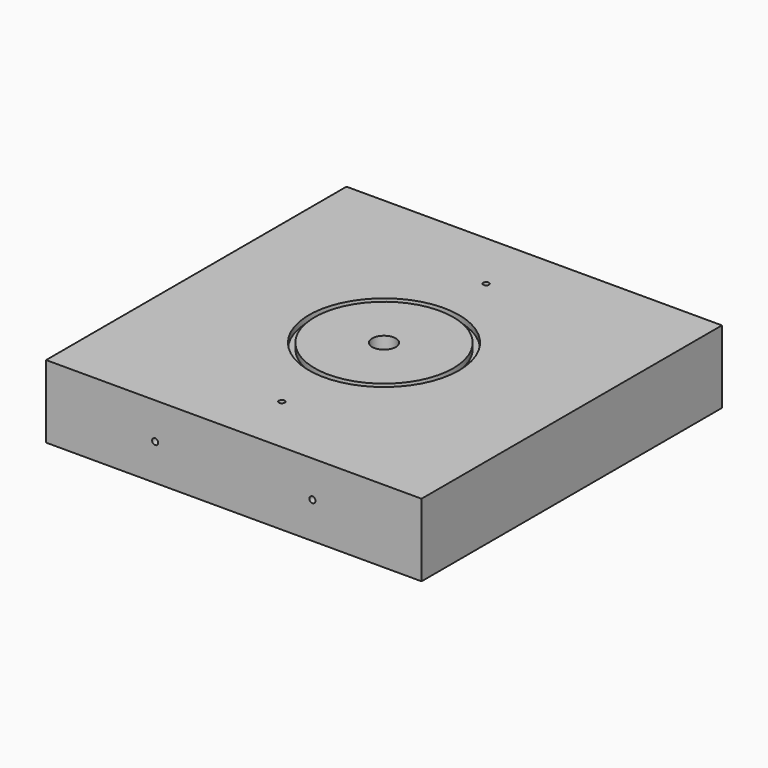
from build123d import *

# Parameters (mm, degrees)
F0_W     = 206.5
F0_H     = 206.5
F1_DEPTH = 40
F2_R     = 41.275
F2_R_2   = 38.1
F3_DEPTH = 3.175
F4_R     = 6.5
F5_DEPTH = 8
F6_R     = 1.5875
F8_DEPTH = 5
F7_R     = 1.67005
F9_DEPTH = 5


with BuildPart() as f1:
    # F0 (on Top) → F1 (new body)
    with BuildSketch(Plane.XY):
        Rectangle(F0_W, F0_H)
    extrude(amount=F1_DEPTH)

    # F2 (on face) → F3 (cut)
    with BuildSketch(Plane.XY.offset(40)):
        Circle(F2_R)
        Circle(F2_R_2, mode=Mode.SUBTRACT)
    extrude(amount=-F3_DEPTH, mode=Mode.SUBTRACT)

    # F4 (on face) → F5 (cut)
    with BuildSketch(Plane.XY.offset(40)):
        Circle(F4_R)
    extrude(amount=-F5_DEPTH, mode=Mode.SUBTRACT)

    # F6 (on face) → F8 (cut)
    with BuildSketch(Plane.XY.offset(40)):
        with Locations((0, 70.25)):
            Circle(F6_R)
        with Locations((0, -70.25)):
            Circle(F6_R)
    extrude(amount=-F8_DEPTH, mode=Mode.SUBTRACT)

    # F7 (on face) → F9 (cut)
    with BuildSketch(Plane.XZ.offset(103.25)):
        with Locations((-43.25, 20)):
            Circle(F7_R)
        with Locations((43.25, 20)):
            Circle(F7_R)
    extrude(amount=-F9_DEPTH, mode=Mode.SUBTRACT)


solid = f1.part
